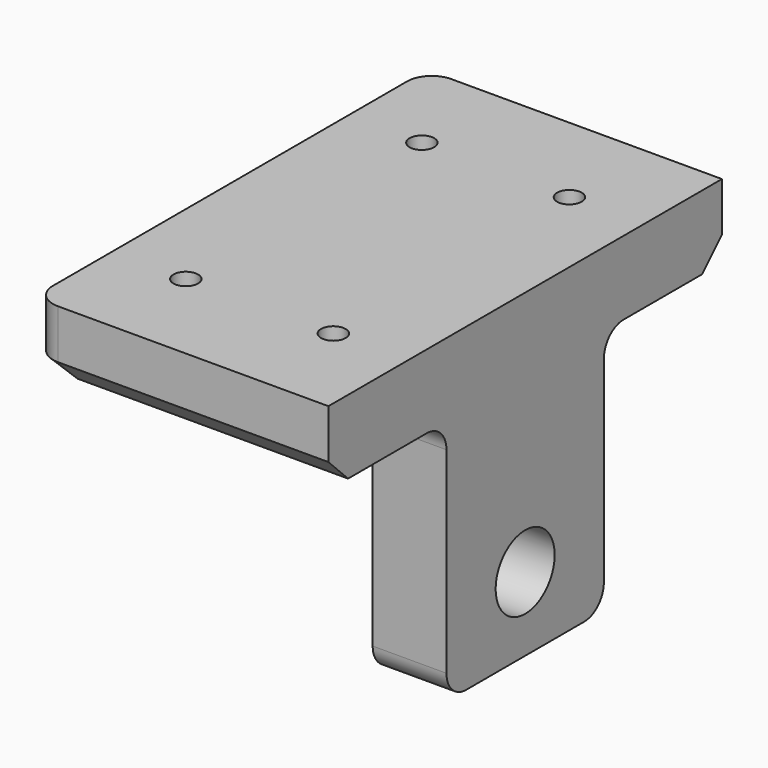
from build123d import *

# Parameters (mm, degrees)
F1_DEPTH = 15
F2_W     = 40
F2_H     = 50
F3_DEPTH = 15
F4_R     = 5
F5_SIZE  = 5
F6_R     = 7.5
F7_DEPTH = 25
F8_R     = 2.5
F9_DEPTH = 25


with BuildPart() as f1:
    # F0 (on Top) → F1 (new body)
    with BuildSketch(Plane.XY):
        with BuildLine():
            Line((30, 50), (-25, 50))
            ThreePointArc((-25, 50), (-28.5355339059, 48.5355339059), (-30, 45))
            Line((-30, 45), (-30, -45))
            ThreePointArc((-30, -45), (-28.5355339059, -48.5355339059), (-25, -50))
            Line((-25, -50), (30, -50))
            Line((30, -50), (30, 50))
        make_face()
    extrude(amount=F1_DEPTH)

    # F2 (on face) → F3 (join)
    with BuildSketch(Plane.YZ.offset(30)):
        with Locations((0, -25)):
            Rectangle(F2_W, F2_H)
    extrude(amount=-F3_DEPTH)

    # F4
    f4_edges = [f1.edges().sort_by_distance(p)[0] for p in [
        (22.5, 20, 0),
        (15, 0, 0),
        (22.5, 20, -50),
        (22.5, -20, -50),
        (22.5, -20, 0),
    ]]
    fillet(f4_edges, radius=F4_R)

    # F5
    f5_edges = [f1.edges().sort_by_distance(p)[0] for p in [
        (2.5, 50, 0),
    ]]
    chamfer(f5_edges, length=F5_SIZE)

    # F6 (on face) → F7 (cut)
    with BuildSketch(Plane(origin=(15, 0, 0), x_dir=(0, -1, 0), z_dir=(-1, 0, 0))):
        with Locations((0, -35)):
            Circle(F6_R)
    extrude(amount=-F7_DEPTH, mode=Mode.SUBTRACT)

    # F8 (on face) → F9 (cut)
    with BuildSketch(Plane.XY.offset(15)):
        with Locations((-15, -30)):
            Circle(F8_R)
        with Locations((15, -30)):
            Circle(F8_R)
        with Locations((15, 30)):
            Circle(F8_R)
        with Locations((-15, 30)):
            Circle(F8_R)
    extrude(amount=-F9_DEPTH, mode=Mode.SUBTRACT)


solid = f1.part
